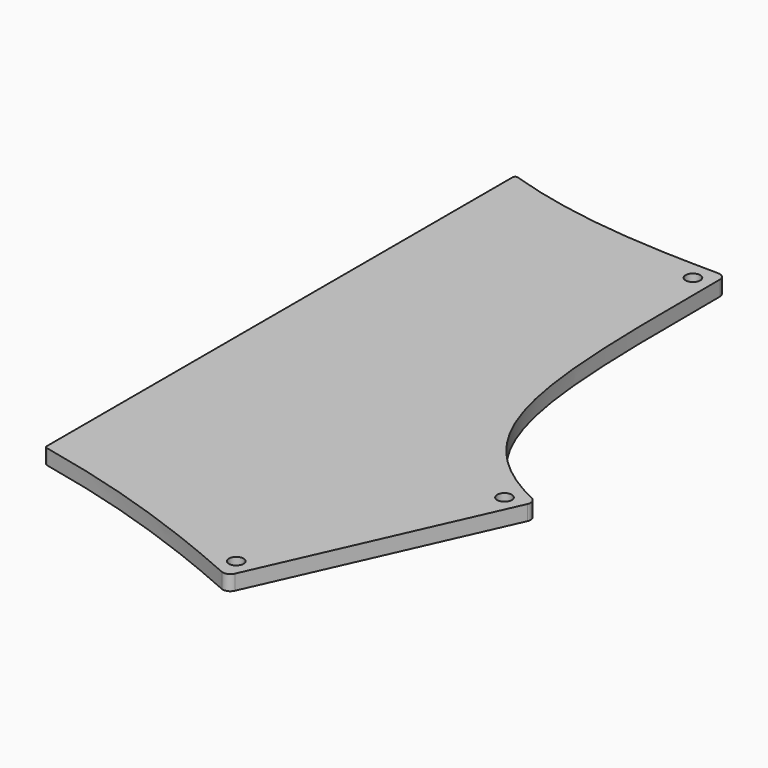
from build123d import *

# Parameters (mm, degrees)
PAD011_DEPTH    = 3
SKETCH046_R     = 1.45
POCKET014_DEPTH = 27
FILLET009_R     = 1.5
FILLET017_R     = 0.5


with BuildPart() as part:
    # Sketch035 → Pad011 (new body)
    with BuildSketch(Plane.XY):
        with BuildLine():
            add(Edge.make_bspline(
                [(104.266667, -21.941284), (120.21302, -25.349195), (134.610356, -29.830731), (153.231854, -38.154949)],
                knots=[0, 0, 0, 0, 1, 1, 1, 1], degree=3))
            Line((153.231854, -38.154949), (175.310198, 11.234895))
            add(Edge.make_bspline(
                [(150.875, 88.9625), (150.875, 42.8625), (150.875, 22.157965), (175.310198, 11.234895)],
                knots=[0, 0, 0, 0, 1, 1, 1, 1], degree=3))
            add(Edge.make_bspline(
                [(104.266667, 94.924515), (121.368889, 89.186974), (138.406555, 89.068954), (150.875, 88.9625)],
                knots=[0, 0, 0, 0, 1, 1, 1, 1], degree=3))
            Line((104.266667, 94.924515), (104.266667, -21.941284))
        make_face()
    extrude(amount=PAD011_DEPTH)

    # Sketch046 → Pocket014 (cut)
    with BuildSketch(Plane.XY):
        with Locations((-4.375, -4.375)):
            Circle(SKETCH046_R)
        with Locations((-4.375, 80.575)):
            Circle(SKETCH046_R)
        with Locations((151.401832, -33.366184)):
            Circle(SKETCH046_R)
        with Locations((170.521433, 9.404873)):
            Circle(SKETCH046_R)
        with Locations((147.25, 85.3375)):
            Circle(SKETCH046_R)
        with Locations((43.25, -13.9)):
            Circle(SKETCH046_R)
        with Locations((57.15, 92.085)):
            Circle(SKETCH046_R)
        with Locations((95.25, 92.085)):
            Circle(SKETCH046_R)
        with Locations((95.25, -13.9)):
            Circle(SKETCH046_R)
    extrude(amount=POCKET014_DEPTH, mode=Mode.SUBTRACT)

    # Fillet009
    fillet009_edges = [part.edges().sort_by_distance(p)[0] for p in [
        (153.231854, -38.154949, 1.5),
        (175.310198, 11.234895, 1.5),
        (150.875, 88.9625, 1.5),
    ]]
    fillet(fillet009_edges, radius=FILLET009_R)

    # Fillet017
    fillet017_edges = [part.edges().sort_by_distance(p)[0] for p in [
        (104.266667, 94.924515, 1.5),
        (104.266667, -21.941284, 1.5),
    ]]
    fillet(fillet017_edges, radius=FILLET017_R)


with BuildPart() as part_1:
    # Body010 placement: moved
    add(part.part.moved(Location((0, 0, -21))))


solid = part_1.part
